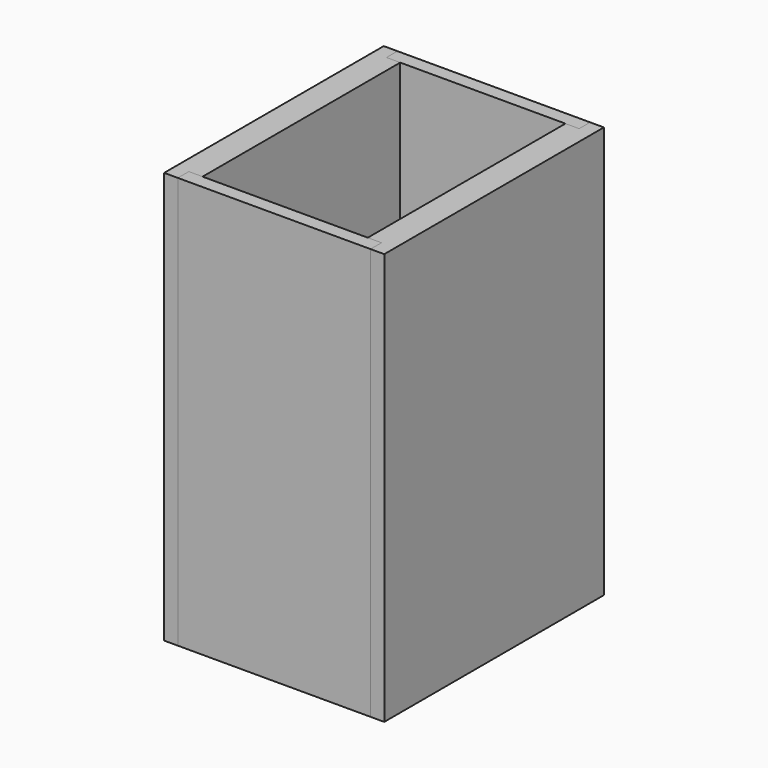
from build123d import *

# Parameters (mm, degrees)
F1_DEPTH = 150
F2_DEPTH = 150


with BuildPart() as f1:
    # F0 (on Top) → F1 (new body)
    with BuildSketch(Plane.XY):
        Polygon((-35.091523, 100), (-40.091523, 100), (-40.091523, 0), (-35.091523, 0), (-35.091523, 5), (-30.091523, 5), (-30.091523, 95), (-35.091523, 95), align=None)
        Polygon((40.091523, 100), (35.091523, 100), (35.091523, 95), (30.091523, 95), (30.091523, 5), (35.091523, 5), (35.091523, 0), (40.091523, 0), align=None)
    extrude(amount=F1_DEPTH)


with BuildPart() as f2:
    # F0 (on Top) → F2 (new body)
    with BuildSketch(Plane.XY):
        Polygon((35.091523, 100), (-35.091523, 100), (-35.091523, 95), (-30.091523, 95), (30.091523, 95), (35.091523, 95), align=None)
        Polygon((-35.091523, 5), (-35.091523, 0), (35.091523, 0), (35.091523, 5), (30.091523, 5), (-30.091523, 5), align=None)
    extrude(amount=F2_DEPTH)


solid = Compound([f1.part, f2.part])
